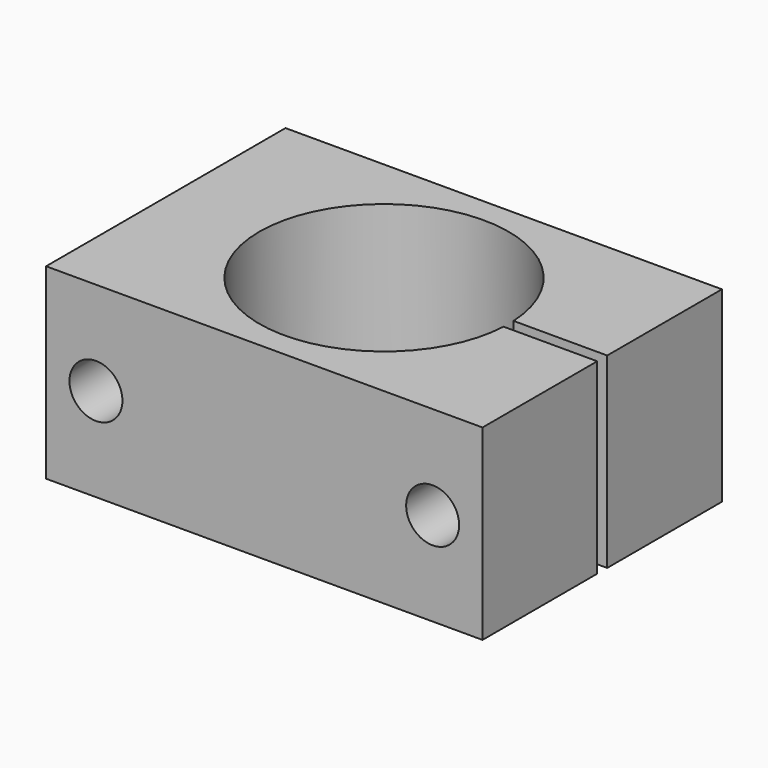
from build123d import *

# Parameters (mm, degrees)
F1_DEPTH = 30
F2_R     = 4.25
F3_DEPTH = 48.001


with BuildPart() as f1:
    # F0 (on Top) → F1 (new body)
    with BuildSketch(Plane.XY):
        with BuildLine():
            Line((35, 24), (-35, 24))
            Line((-35, 24), (-35, -24))
            Line((-35, -24), (35, -24))
            Line((35, -24), (35, -1))
            Line((35, -1), (19.974984, -1))
            ThreePointArc((19.974984, -1), (-20, 0), (19.974984, 1))
            Line((19.974984, 1), (35, 1))
            Line((35, 1), (35, 24))
        make_face()
    extrude(amount=F1_DEPTH)

    # F2 (on face) → F3 (cut, through all)
    with BuildSketch(Plane(origin=(0, 24, 0), x_dir=(-1, 0, 0), z_dir=(0, 1, 0))):
        with Locations((27, 15)):
            Circle(F2_R)
        with Locations((-27, 15)):
            Circle(F2_R)
    extrude(amount=-F3_DEPTH, mode=Mode.SUBTRACT)


solid = f1.part
